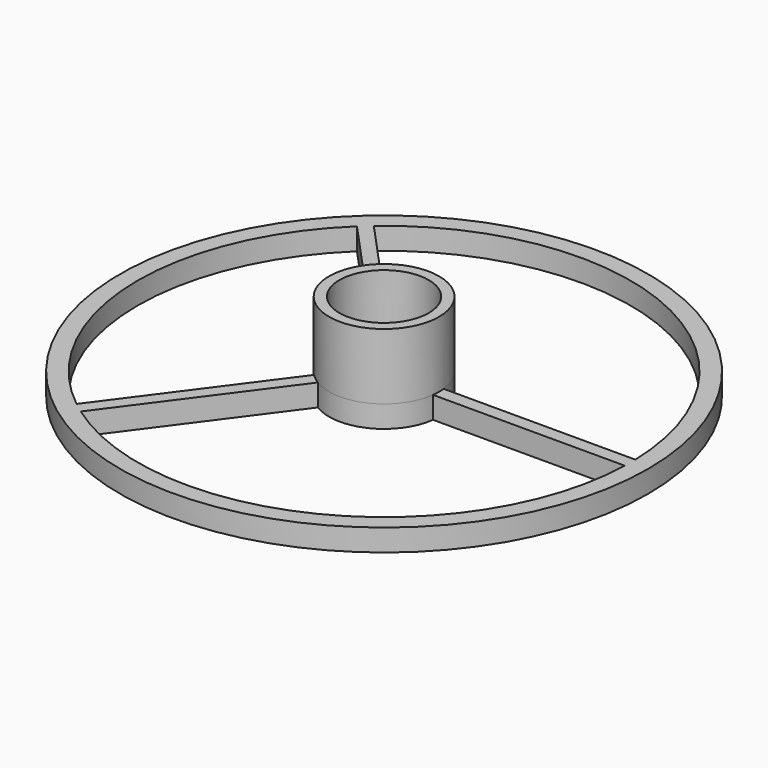
from build123d import *

# Parameters (mm, degrees)
SKETCH_R      = 120
SKETCH_R_2    = 20.3
PAD_DEPTH     = 10
SKETCH001_R   = 25
SKETCH001_R_2 = 20.3
PAD001_DEPTH  = 30


with BuildPart() as part:
    # Sketch → Pad (new body)
    with BuildSketch(Plane.XY):
        Circle(SKETCH_R)
        Circle(SKETCH_R_2, mode=Mode.SUBTRACT)
        with BuildLine():
            ThreePointArc((111.964891, 2.804147), (45.592578, 102.300131), (-72.7719, 85.136658))
            Line((-13.839048, 20.8202), (-72.7719, 85.136658))
            ThreePointArc((24.842237, 2.804147), (10.555192, 22.662478), (-13.839048, 20.8202))
            Line((24.842237, 2.804147), (111.964891, 2.804147))
        make_face(mode=Mode.SUBTRACT)
        with BuildLine():
            Line((24.794913, -3.195666), (111.9544, -3.195666))
            ThreePointArc((-64.872706, -91.299135), (49.94724, -100.246063), (111.9544, -3.195666))
            Line((-13.075988, -21.307711), (-64.872706, -91.299135))
            ThreePointArc((-13.075988, -21.307711), (10.786327, -22.553385), (24.794913, -3.195666))
        make_face(mode=Mode.SUBTRACT)
        with BuildLine():
            Line((-17.776297, -17.578489), (-69.668887, -87.694049))
            ThreePointArc((-77.226732, 81.117395), (-111.88792, -5.009326), (-69.668887, -87.694049))
            Line((-18.401224, 16.923208), (-77.226732, 81.117395))
            ThreePointArc((-18.401224, 16.923208), (-24.9959, -0.452749), (-17.776297, -17.578489))
        make_face(mode=Mode.SUBTRACT)
    extrude(amount=PAD_DEPTH)

    # Sketch001 (on Face16 of Pad) → Pad001 (join)
    with BuildSketch(Plane.XY.offset(10)):
        Circle(SKETCH001_R)
        Circle(SKETCH001_R_2, mode=Mode.SUBTRACT)
    extrude(amount=PAD001_DEPTH)


solid = part.part
